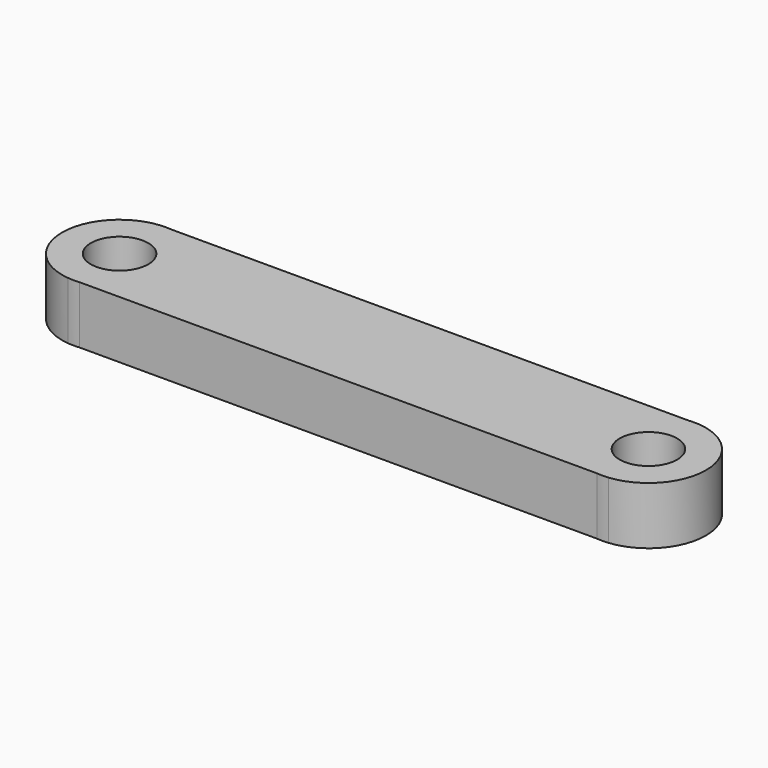
from build123d import *

# Parameters (mm, degrees)
F0_R     = 0.125
F1_DEPTH = 0.25


with BuildPart() as f1:
    # F0 (on Top) → F1 (new body)
    with BuildSketch(Plane.XY):
        with BuildLine():
            Line((-35.691446, 0.248822), (-35.64296, 0.248822))
            ThreePointArc((-35.64296, 0.248822), (-35.667203, 0.25), (-35.691446, 0.248822))
        make_face()
        with BuildLine():
            Line((-35.642336, -0.24876), (-35.69207, -0.24876))
            ThreePointArc((-35.69207, -0.24876), (-35.667203, -0.25), (-35.642336, -0.24876))
        make_face()
        with BuildLine():
            ThreePointArc((-33.39207, -0.24876), (-33.367203, -0.25), (-33.342336, -0.24876))
            Line((-33.342336, -0.24876), (-33.39207, -0.24876))
        make_face()
        with BuildLine():
            ThreePointArc((-33.34296, 0.248822), (-33.367203, 0.25), (-33.391446, 0.248822))
            Line((-33.391446, 0.248822), (-33.34296, 0.248822))
        make_face()
        with BuildLine():
            Line((-33.391446, 0.248822), (-35.64296, 0.248822))
            Line((-35.64296, 0.248822), (-35.691446, 0.248822))
            ThreePointArc((-35.691446, 0.248822), (-35.917203, 0.000314), (-35.69207, -0.24876))
            Line((-35.69207, -0.24876), (-35.642336, -0.24876))
            Line((-35.642336, -0.24876), (-33.39207, -0.24876))
            Line((-33.39207, -0.24876), (-33.342336, -0.24876))
            ThreePointArc((-33.342336, -0.24876), (-33.117203, 0.000314), (-33.34296, 0.248822))
            Line((-33.34296, 0.248822), (-33.391446, 0.248822))
        make_face()
        with Locations((-35.667203, 0)):
            Circle(F0_R, mode=Mode.SUBTRACT)
        with Locations((-33.367203, 0)):
            Circle(F0_R, mode=Mode.SUBTRACT)
    extrude(amount=F1_DEPTH)


solid = f1.part
